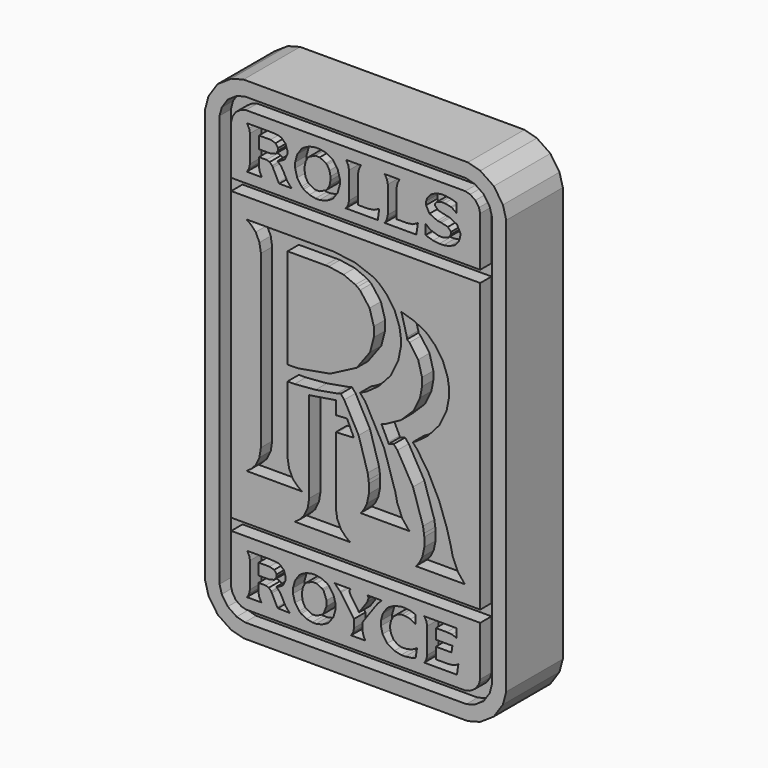
from build123d import *

# Parameters (mm, degrees)
F1_DEPTH = 6.35
F2_W     = 22.361424
F2_H     = 25.818871
F3_DEPTH = 1.27
F5_DEPTH = 1.27


with BuildPart() as f1:
    # F0 (on Front) → F1 (new body)
    with BuildSketch(Plane.XZ):
        Polygon((13.517118, -18.264505), (13.517118, 18.266029), (13.517118, 18.638139), (13.21689, 19.754215), (12.399518, 20.966811), (11.185576, 21.785199), (10.069398, 22.084411), (9.697314, 22.084411), (-9.698584, 22.084411), (-10.070643, 22.084411), (-11.186846, 21.785199), (-12.400915, 20.966811), (-13.218084, 19.754215), (-13.517118, 18.638139), (-13.517118, 18.266029), (-13.517118, -18.264505), (-13.517118, -18.635193), (-13.218084, -19.751396), (-12.400915, -20.965439), (-11.186846, -21.784005), (-10.070643, -22.084411), (-9.698584, -22.084411), (9.697314, -22.084411), (10.069398, -22.084411), (11.185576, -21.784005), (12.399518, -20.965439), (13.21689, -19.751396), (13.517118, -18.635193), align=None)
    extrude(amount=F1_DEPTH)

    # F2 (on face) → F3 (cut)
    with BuildSketch(Plane.XZ.offset(6.35)):
        Polygon((-12.22662, 18.511012), (-12.22662, 18.265902), (-12.22662, -18.264632), (-12.22662, -18.508548), (-12.02817, -19.243015), (-11.487988, -20.043673), (-10.687355, -20.583855), (-9.954235, -20.78228), (-9.708947, -20.78228), (9.68695, -20.78228), (9.93361, -20.78228), (10.677754, -20.583855), (11.483899, -20.043673), (12.026951, -19.243015), (12.226595, -18.508548), (12.226595, -18.264632), (12.226595, 18.265902), (12.226595, 18.511012), (12.026951, 19.244056), (11.483899, 20.044918), (10.677754, 20.584922), (9.93361, 20.78228), (9.68695, 20.78228), (-9.708947, 20.78228), (-9.954235, 20.78228), (-10.687355, 20.584922), (-11.487988, 20.044918), (-12.02817, 19.244056), align=None)
        Polygon((-11.180674, -18.264632), (-11.180674, -13.955471), (11.179378, -13.955471), (11.179378, -18.264632), (11.179378, -18.406542), (11.062233, -18.836513), (10.745292, -19.305041), (10.271227, -19.620611), (9.833051, -19.73773), (9.68695, -19.73773), (-9.708947, -19.73773), (-9.852254, -19.73773), (-10.280828, -19.620611), (-10.749356, -19.305041), (-11.064926, -18.836513), (-11.180674, -18.406542), align=None, mode=Mode.SUBTRACT)
        with Locations((3.8e-05, -0.00014)):
            Rectangle(F2_W, F2_H, mode=Mode.SUBTRACT)
        Polygon((11.179378, 13.955268), (-11.180674, 13.955268), (-11.180674, 18.265902), (-11.180674, 18.409158), (-11.064926, 18.837656), (-10.749356, 19.306286), (-10.280828, 19.622008), (-9.852254, 19.737578), (-9.708947, 19.737578), (9.68695, 19.737578), (9.833051, 19.737578), (10.271227, 19.622008), (10.745292, 19.306286), (11.062233, 18.837656), (11.179378, 18.409158), (11.179378, 18.265902), align=None, mode=Mode.SUBTRACT)
    extrude(amount=-F3_DEPTH, mode=Mode.SUBTRACT)

    # F4 (on face) → F5 (cut)
    with BuildSketch(Plane.XZ.offset(6.35)):
        Polygon((6.294222, 15.991561), (6.273546, 16.023311), (6.273546, 15.105609), (6.363106, 15.058619), (6.947383, 14.895805), (7.513777, 14.828495), (7.702575, 14.828495), (7.878953, 14.828495), (8.412251, 14.920951), (8.937295, 15.181301), (9.265234, 15.586431), (9.385148, 15.979369), (9.389262, 16.110179), (9.393403, 16.275279), (9.088857, 16.867861), (8.401202, 17.202633), (8.215198, 17.240225), (8.027772, 17.277055), (7.391095, 17.438345), (7.127926, 17.705807), (7.127926, 17.793945), (7.127926, 17.862779), (7.308444, 18.068011), (7.684643, 18.180025), (7.810017, 18.180025), (7.990586, 18.180025), (8.534883, 18.073853), (8.599653, 18.051755), (8.64649, 18.031181), (9.047531, 17.748479), (9.069578, 17.711395), (9.069578, 18.542229), (9.004808, 18.575503), (8.566607, 18.718759), (7.998841, 18.797245), (7.810017, 18.797245), (7.659853, 18.797245), (7.209206, 18.711901), (6.742074, 18.472125), (6.43476, 18.113731), (6.319012, 17.780229), (6.316269, 17.667453), (6.316269, 17.479747), (6.627698, 16.913581), (7.334631, 16.585413), (7.533056, 16.557981), (7.687412, 16.537407), (8.275828, 16.400755), (8.55693, 16.103067), (8.55693, 16.002483), (8.55693, 15.899359), (8.329574, 15.587701), (7.858277, 15.426411), (7.702575, 15.426411), (7.468286, 15.426411), (6.769608, 15.635961), (6.680048, 15.684475), (6.646977, 15.700731), align=None)
        Polygon((-6.379616, 15.764231), (-6.420968, 15.853639), (-6.469177, 15.944825), (-6.699326, 16.326333), (-6.972173, 16.589731), (-7.041058, 16.621481), (-6.892239, 16.654501), (-6.368618, 16.968445), (-6.143955, 17.445457), (-6.143955, 17.603953), (-6.143955, 17.763719), (-6.302451, 18.243525), (-6.662115, 18.589219), (-6.762699, 18.626303), (-6.827469, 18.653989), (-7.209206, 18.721553), (-7.676363, 18.733745), (-7.830693, 18.733745), (-9.793021, 18.733745), (-9.746183, 18.701995), (-9.572523, 18.388051), (-9.495333, 18.007813), (-9.495333, 17.879289), (-9.495333, 15.724353), (-9.495333, 15.601417), (-9.572523, 15.230831), (-9.746183, 14.920951), (-9.793021, 14.893011), (-8.384667, 14.893011), (-8.432876, 14.920951), (-8.606511, 15.230831), (-8.683701, 15.601417), (-8.683701, 15.724353), (-8.683701, 16.407613), (-8.08703, 16.407613), (-7.997419, 16.407613), (-7.724572, 16.326333), (-7.522007, 16.126689), (-7.488911, 16.067507), (-7.436561, 15.981909), (-6.93359, 14.984197), (-6.86882, 14.893011), (-5.738825, 14.893011), (-5.824271, 14.952447), (-6.145327, 15.326081), align=None)
        Polygon((-6.976288, 17.667453), (-6.976288, 17.559757), (-6.976288, 17.457903), (-7.198157, 17.150563), (-7.640523, 17.027881), (-7.78797, 17.027881), (-8.683701, 17.027881), (-8.683701, 18.115001), (-7.78797, 18.115001), (-7.640523, 18.115001), (-7.198157, 17.989779), align=None, mode=Mode.SUBTRACT)
        Polygon((-3.616655, 14.785823), (-3.434766, 14.785823), (-3.251454, 14.785823), (-2.70162, 14.898853), (-2.197252, 15.160473), (-2.111858, 15.234895), (-2.011223, 15.320239), (-1.61986, 15.881325), (-1.429715, 16.580079), (-1.429715, 16.812997), (-1.429715, 17.044391), (-1.61986, 17.739081), (-2.011223, 18.308041), (-2.111858, 18.391861), (-2.197252, 18.462473), (-2.70162, 18.710631), (-3.251454, 18.819089), (-3.434766, 18.819089), (-3.619398, 18.819089), (-4.169258, 18.710631), (-4.672228, 18.462473), (-4.757674, 18.391861), (-4.85963, 18.308041), (-5.250993, 17.739081), (-5.439766, 17.044391), (-5.439766, 16.812997), (-5.439766, 16.580079), (-5.250993, 15.881325), (-4.85963, 15.320239), (-4.757674, 15.234895), (-4.672228, 15.160473), (-4.160952, 14.898853), align=None)
        Polygon((-4.198163, 15.740863), (-4.246397, 15.788869), (-4.305656, 15.842717), (-4.505477, 16.205175), (-4.586808, 16.661359), (-4.586808, 16.812997), (-4.586808, 16.961841), (-4.505477, 17.406595), (-4.305656, 17.778959), (-4.246397, 17.836617), (-4.198163, 17.886401), (-3.626282, 18.157673), (-3.434766, 18.157673), (-3.232175, 18.157673), (-2.67269, 17.886401), (-2.62448, 17.836617), (-2.566568, 17.778959), (-2.355748, 17.406595), (-2.262022, 16.961841), (-2.262022, 16.812997), (-2.262022, 16.661359), (-2.355748, 16.205175), (-2.566568, 15.842717), (-2.62448, 15.788869), (-2.67269, 15.740863), (-3.244571, 15.469083), (-3.434766, 15.469083), (-3.638702, 15.469083), align=None, mode=Mode.SUBTRACT)
        Polygon((1.985061, 14.893011), (2.113229, 15.874467), (2.059508, 15.805379), (1.640586, 15.589225), (1.130706, 15.512009), (0.961212, 15.512009), (0.2143, 15.512009), (0.2143, 17.879289), (0.2143, 18.005019), (0.287325, 18.379669), (0.447192, 18.701995), (0.491287, 18.733745), (-0.896391, 18.733745), (-0.848157, 18.701995), (-0.674522, 18.379669), (-0.597383, 18.005019), (-0.597383, 17.879289), (-0.597383, 15.724353), (-0.597383, 15.601417), (-0.674522, 15.230831), (-0.848157, 14.926285), (-0.896391, 14.893011), align=None)
        Polygon((5.441188, 14.871167), (5.591404, 15.874467), (5.537632, 15.805379), (5.11871, 15.582367), (4.560621, 15.507945), (4.43799, 15.512009), (3.671799, 15.512009), (3.671799, 17.879289), (3.671799, 18.005019), (3.747592, 18.379669), (3.921227, 18.701995), (3.969436, 18.733745), (2.583129, 18.733745), (2.630018, 18.701995), (2.803627, 18.379669), (2.880792, 18.005019), (2.880792, 17.879289), (2.880792, 15.724353), (2.880792, 15.598623), (2.803627, 15.219655), (2.630018, 14.904441), (2.583129, 14.871167), align=None)
        Polygon((-1.790751, -9.106637), (-1.790751, -8.835187), (-1.790751, -3.094279), (-1.652956, -3.088742), (-0.302463, -3.018485), (-0.168783, -3.007462), (-0.218415, -2.895854), (-0.731037, -1.793418), (-0.788924, -1.687297), (-0.868832, -1.696923), (-1.706677, -1.745183), (-1.790751, -1.750695), (-1.790751, -0.555955), (-1.978152, -0.598678), (-3.973551, -0.916991), (-4.180256, -0.939038), (-4.180256, -8.835187), (-4.180256, -9.106637), (-4.315308, -9.923831), (-4.64881, -10.639044), (-5.073244, -11.086897), (-5.379161, -11.304626), (-5.483885, -11.373536), (-0.48989, -11.373536), (-0.591871, -11.303254), (-0.892251, -11.086897), (-1.316685, -10.639044), (-1.654327, -9.923831), align=None)
        Polygon((5.399862, -11.350092), (9.815068, -11.350092), (9.713112, -11.253648), (9.171534, -10.570134), (8.704402, -9.48977), (8.641004, -9.196222), (8.544535, -8.751113), (8.184845, -7.430948), (7.482078, -5.475529), (6.478854, -3.492551), (5.501843, -2.067636), (5.121504, -1.643202), (5.483911, -1.444777), (6.487109, -0.69375), (7.513777, 0.472084), (8.160055, 1.833601), (8.386089, 2.986989), (8.386089, 3.370047), (8.388833, 3.659607), (8.252409, 4.527779), (7.833487, 5.645379), (7.145807, 6.656807), (6.466484, 7.314159), (6.210148, 7.489165), (6.059932, 7.585431), (5.230343, 7.985227), (4.283659, 8.277327), (4.075557, 8.319999), (4.149954, 8.160233), (4.599229, 6.485865), (4.610227, 6.314923), (4.827956, 6.143981), (5.609336, 5.037557), (5.953811, 3.755873), (5.953811, 3.328899), (5.953811, 3.021457), (5.781548, 2.095424), (5.193157, 0.870331), (4.071417, -0.234848), (2.766441, -0.95283), (2.304796, -1.109904), (2.362632, -1.221537), (2.9194, -2.363927), (2.967634, -2.476932), (3.004845, -2.465883), (3.376879, -2.35839), (3.415487, -2.348763), (3.744824, -2.731846), (5.144922, -5.176495), (6.044768, -7.973898), (6.124702, -8.534756), (6.161913, -8.797976), (6.163285, -9.604121), (5.99379, -10.407523), (5.707151, -10.976661), (5.483911, -11.264646), align=None)
        Polygon((0.427914, -8.769045), (4.844517, -8.769045), (4.737024, -8.672576), (4.185793, -7.987716), (3.72966, -6.907327), (3.671799, -6.615151), (3.553257, -6.076366), (2.55557, -2.944089), (0.853719, 0.186817), (0.385191, 0.725653), (0.405867, 0.736676), (0.597383, 0.822122), (0.61943, 0.831748), (0.999795, 1.026058), (2.05674, 1.779829), (3.137129, 2.969082), (3.817849, 4.370553), (4.054881, 5.556987), (4.054881, 5.952465), (4.057625, 6.244565), (3.921227, 7.119849), (3.502304, 8.237449), (2.81465, 9.242019), (2.133905, 9.896577), (1.87894, 10.070059), (1.600606, 10.257511), (-0.077826, 10.873461), (-1.987804, 11.116031), (-2.62448, 11.116031), (-9.815068, 11.116031), (-9.711715, 11.048467), (-9.405772, 10.830789), (-8.979967, 10.384257), (-8.647862, 9.667723), (-8.512835, 8.850605), (-8.512835, 8.577809), (-8.512835, -6.230696), (-8.512835, -6.504915), (-8.647862, -7.328992), (-8.979967, -8.04418), (-9.405772, -8.486521), (-9.711715, -8.701507), (-9.815068, -8.769045), (-4.821047, -8.769045), (-4.923028, -8.700135), (-5.222088, -8.486521), (-5.647868, -8.04418), (-5.985485, -7.328992), (-6.121908, -6.504915), (-6.121908, -6.230696), (-6.121908, -0.492557), (-5.492166, -0.492557), (-3.598723, -0.339598), (-1.691513, -0.004724), (-1.34427, 0.084836), (-1.030046, -0.292735), (0.263906, -2.68224), (1.076935, -5.392852), (1.152754, -5.933034), (1.187196, -6.1976), (1.183056, -7.006514), (1.013562, -7.815453), (0.732434, -8.392846), (0.511937, -8.6836), align=None)
        Polygon((-5.161432, 0.848284), (-6.121908, 0.831748), (-6.121908, 9.793199), (-2.730576, 9.793199), (-2.421915, 9.789135), (-1.098982, 9.583649), (-0.03236, 9.131783), (0.14953, 9.003513), (0.389306, 8.832571), (1.245083, 7.699985), (1.622654, 6.374105), (1.622654, 5.931891), (1.622654, 5.504663), (1.287805, 4.222979), (0.08476, 2.598369), (-2.285441, 1.365072), align=None, mode=Mode.SUBTRACT)
        Polygon((3.093034, -17.024883), (3.093034, -16.899458), (3.093034, -16.768547), (3.171571, -16.379927), (3.400298, -15.967939), (3.769639, -15.695041), (4.14307, -15.597226), (4.268495, -15.597226), (4.433849, -15.597226), (4.934077, -15.693669), (5.318531, -15.91691), (5.37779, -15.98168), (5.37779, -15.19207), (5.32958, -15.165883), (4.968545, -15.04602), (4.45864, -14.978482), (4.289171, -14.978482), (4.093489, -14.978482), (3.506419, -15.101113), (2.986913, -15.372613), (2.902864, -15.44701), (2.806395, -15.526944), (2.438451, -16.053333), (2.262073, -16.687241), (2.262073, -16.899458), (2.262073, -17.09928), (2.40952, -17.700092), (2.827045, -18.296788), (3.46644, -18.668873), (4.08244, -18.798413), (4.289171, -18.798413), (4.45864, -18.798413), (4.968545, -18.733643), (5.32958, -18.627522), (5.37779, -18.606846), (5.505958, -17.774539), (5.452237, -17.837887), (5.007102, -18.072176), (4.453128, -18.179669), (4.268495, -18.179669), (4.14307, -18.179669), (3.769639, -18.080431), (3.400298, -17.810353), (3.171571, -17.405223), align=None)
        Polygon((-6.529832, -17.886147), (-6.571183, -17.795164), (-6.613881, -17.709769), (-6.827469, -17.344568), (-7.085178, -17.096537), (-7.148551, -17.070349), (-7.010756, -17.042765), (-6.521577, -16.746499), (-6.298286, -16.269691), (-6.292799, -16.152571), (-6.292799, -15.994101), (-6.448501, -15.522778), (-6.795795, -15.18793), (-6.890868, -15.150744), (-6.950126, -15.128697), (-7.673594, -15.065299), (-7.914767, -15.065299), (-9.772345, -15.065299), (-9.729622, -15.091486), (-9.56978, -15.380868), (-9.495333, -15.751556), (-9.495333, -15.875559), (-9.495333, -17.924704), (-9.495333, -18.041874), (-9.56978, -18.393283), (-9.729622, -18.701944), (-9.772345, -18.733643), (-8.449437, -18.733643), (-8.49216, -18.701944), (-8.652002, -18.393283), (-8.726424, -18.041874), (-8.726424, -17.924704), (-8.726424, -17.263262), (-8.171053, -17.263262), (-8.081493, -17.263262), (-7.808646, -17.352823), (-7.606081, -17.549876), (-7.574356, -17.603648), (-7.527519, -17.683556), (-7.057619, -18.627522), (-6.99836, -18.712967), (-5.909716, -18.733643), (-5.996534, -18.668873), (-6.306591, -18.303697), align=None)
        Polygon((-7.104456, -16.072637), (-7.104456, -16.173247), (-7.104456, -16.271062), (-7.313905, -16.565982), (-7.734249, -16.68587), (-7.873416, -16.68587), (-8.726424, -16.68587), (-8.726424, -15.661996), (-7.873416, -15.661996), (-7.734249, -15.661996), (-7.313905, -15.773629), align=None, mode=Mode.SUBTRACT)
        Polygon((-3.904666, -18.819063), (-3.733775, -18.819063), (-3.558769, -18.819063), (-3.032354, -18.708827), (-2.554199, -18.462168), (-2.474265, -18.393283), (-2.379193, -18.313324), (-2.000199, -17.781422), (-1.812798, -17.119956), (-1.812798, -16.899458), (-1.812798, -16.677615), (-2.000199, -16.013405), (-2.379193, -15.470429), (-2.474265, -15.384983), (-2.554199, -15.320239), (-3.032354, -15.084603), (-3.558769, -14.978482), (-3.733775, -14.978482), (-3.904666, -14.978482), (-4.417289, -15.084603), (-4.892726, -15.320239), (-4.972634, -15.384983), (-5.069103, -15.470429), (-5.4467, -16.013405), (-5.632704, -16.677615), (-5.632704, -16.899458), (-5.632704, -17.119956), (-5.4467, -17.781422), (-5.069103, -18.313324), (-4.972634, -18.393283), (-4.892726, -18.462168), (-4.417289, -18.708827), align=None)
        Polygon((-4.4545, -17.908194), (-4.501363, -17.861331), (-4.555084, -17.813096), (-4.74251, -17.475479), (-4.821047, -17.042765), (-4.821047, -16.899458), (-4.821047, -16.754754), (-4.74251, -16.320694), (-4.555084, -15.972053), (-4.501363, -15.919653), (-4.4545, -15.871444), (-3.897782, -15.619273), (-3.711727, -15.619273), (-3.520161, -15.619273), (-2.992374, -15.871444), (-2.942768, -15.919653), (-2.890418, -15.972053), (-2.62448, -16.666566), (-2.62448, -16.899458), (-2.62448, -17.13926), (-2.890418, -17.813096), (-2.942768, -17.861331), (-2.992374, -17.908194), (-3.532581, -18.179669), (-3.711727, -18.179669), (-3.910178, -18.179669), align=None, mode=Mode.SUBTRACT)
        Polygon((2.369566, -15.065299), (1.046632, -15.065299), (1.067308, -15.080437), (1.156894, -15.25684), (1.152754, -15.278887), (1.046632, -15.587548), (1.025982, -15.619273), (0.299745, -16.665194), (-0.426491, -15.597226), (-0.448539, -15.565501), (-0.580822, -15.262377), (-0.575335, -15.236165), (-0.569824, -15.219655), (-0.469214, -15.074951), (-0.447167, -15.065299), (-1.920291, -15.065299), (-1.856892, -15.091486), (-1.392504, -15.571064), (-1.34427, -15.64132), (-0.14953, -17.326661), (-0.14953, -17.924704), (-0.14953, -18.040502), (-0.223926, -18.390489), (-0.383769, -18.685408), (-0.426491, -18.712967), (0.896417, -18.712967), (0.853719, -18.685408), (0.693852, -18.390489), (0.61943, -18.040502), (0.61943, -17.924704), (0.61943, -17.326661), (1.706728, -15.790164), (1.74945, -15.736392), (2.005736, -15.394661), (2.304796, -15.096998), align=None)
        Polygon((8.289595, -18.136946), (8.129753, -18.136946), (7.191299, -18.136946), (7.191299, -17.135119), (8.599653, -17.135119), (8.685098, -16.579748), (7.191299, -16.579748), (7.191299, -15.661996), (8.023631, -15.661996), (8.179359, -15.661996), (8.649284, -15.696438), (9.021318, -15.82735), (9.069578, -15.875559), (9.069578, -15.065299), (6.146749, -15.065299), (6.1881, -15.096998), (6.347943, -15.405659), (6.422365, -15.757068), (6.422365, -15.875559), (6.422365, -17.924704), (6.422365, -18.043246), (6.347943, -18.401538), (6.1881, -18.701944), (6.146749, -18.733643), (9.090254, -18.733643), (9.218397, -17.839284), (9.16465, -17.908194), (8.769172, -18.09148), align=None)
    extrude(amount=-F5_DEPTH, mode=Mode.SUBTRACT)


solid = f1.part
